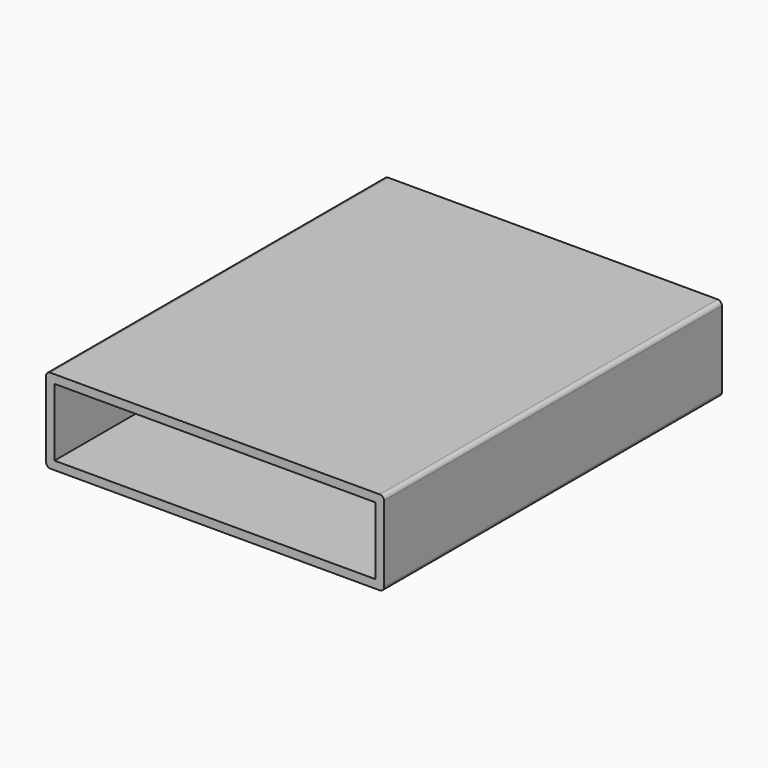
from build123d import *

# Parameters (mm, degrees)
SKETCH_W     = 80
SKETCH_H     = 100
PAD_DEPTH    = 20
SKETCH001_W  = 76
SKETCH001_H  = 16
POCKET_DEPTH = 100.001
FILLET_R     = 1


with BuildPart() as part:
    # Sketch → Pad (new body)
    with BuildSketch(Plane.XY):
        with Locations((40, 50)):
            Rectangle(SKETCH_W, SKETCH_H)
    extrude(amount=PAD_DEPTH)

    # Sketch001 (on Face1 of Pad) → Pocket (cut, through all)
    with BuildSketch(Plane.XZ):
        with Locations((40.002224, 10)):
            Rectangle(SKETCH001_W, SKETCH001_H)
    extrude(amount=-POCKET_DEPTH, mode=Mode.SUBTRACT)

    # Fillet
    fillet_edges = [part.edges().sort_by_distance(p)[0] for p in [
        (0, 50, 0),
        (80, 50, 0),
        (0, 50, 20),
        (80, 50, 20),
    ]]
    fillet(fillet_edges, radius=FILLET_R)


solid = part.part
